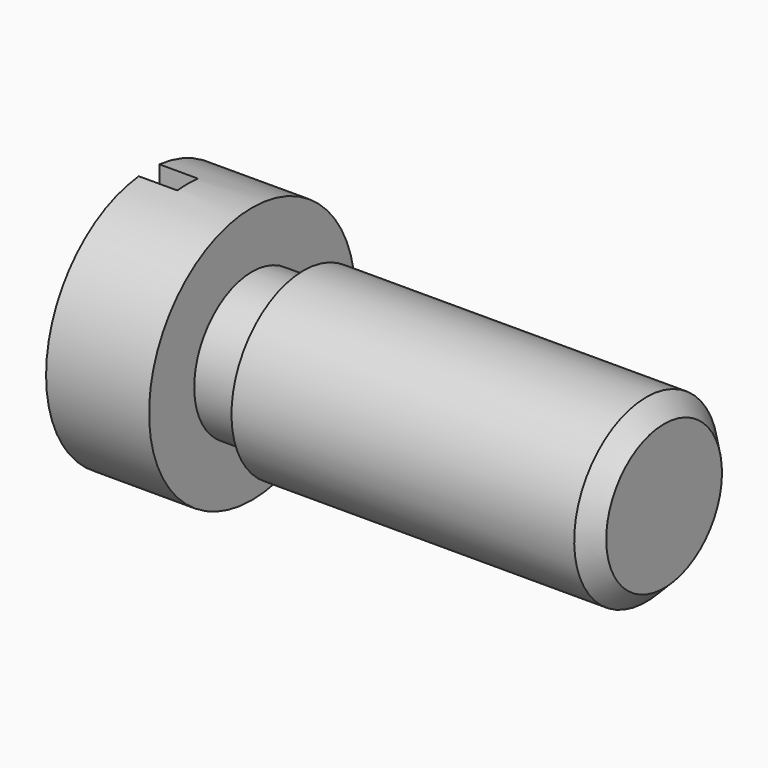
from build123d import *

# Parameters (mm, degrees)
F3_W     = 1.5875
F3_H     = 15.875
F2_DEPTH = 2.38125


with BuildPart() as f1:
    # F0 (on Front) → F1 (revolve)
    with BuildSketch(Plane.XZ):
        Polygon((-9.525, 7.9375), (-15.875, 7.9375), (-15.875, 0), (15.875, 0), (15.875, 4.45897), (14.77772, 5.55625), (-6.35, 5.55625), (-6.35, 4.45897), (-9.525, 4.45897), align=None)
    revolve(axis=Axis((0, 0, 0), (1, 0, 0)))

    # F3 (on face) → F2 (cut)
    with BuildSketch(Plane(origin=(-15.875, 0, 0), x_dir=(0, -1, 0), z_dir=(-1, 0, 0))):
        Rectangle(F3_W, F3_H)
    extrude(amount=-F2_DEPTH, mode=Mode.SUBTRACT)


solid = f1.part
